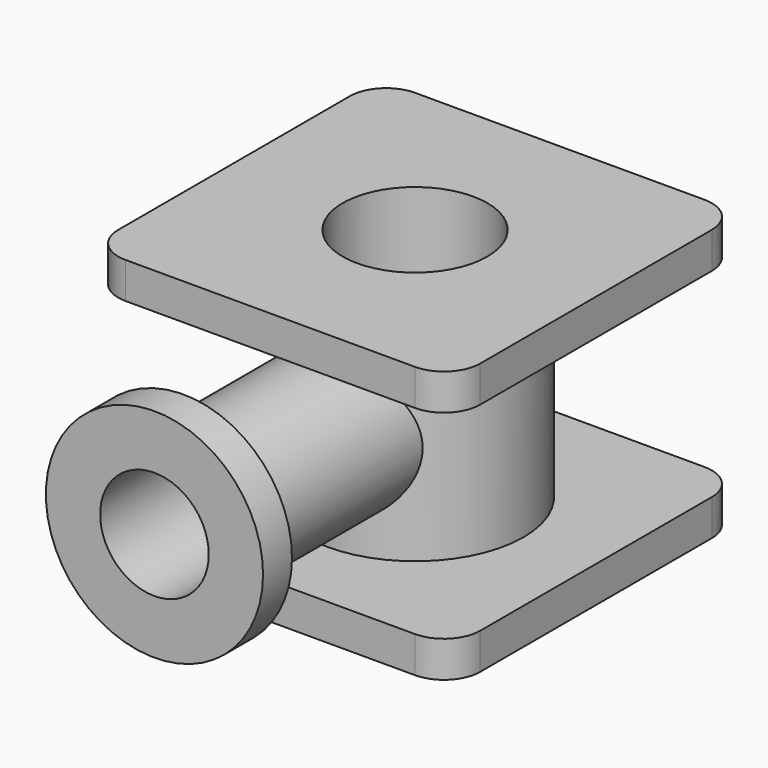
from build123d import *

# Parameters (mm, degrees)
F0_R      = 76.2
F0_R_2    = 50.8
F1_DEPTH  = 69.85
F2_R      = 50.8
F3_DEPTH  = 25.4
F5_R      = 50.8
F6_DEPTH  = 203.2
F7_R      = 76.2
F8_DEPTH  = 25.4
F10_DEPTH = 69.85
F9_R      = 38.1
F11_DEPTH = 203.2


with BuildPart() as f1:
    # F0 (on Top) → F1 (new body, symmetric)
    with BuildSketch(Plane.XY):
        Circle(F0_R)
        Circle(F0_R_2, mode=Mode.SUBTRACT)
    extrude(amount=F1_DEPTH, both=True)

    # F2 (on face) → F3 (join)
    with BuildSketch(Plane.XY.offset(69.85)):
        with BuildLine():
            Line((101.6, 127), (0, 127))
            Line((0, 127), (-101.6, 127))
            ThreePointArc((-101.6, 127), (-119.5605122421, 119.5605122421), (-127, 101.6))
            Line((-127, 101.6), (-127, 0))
            Line((-127, 0), (-127, -101.6))
            ThreePointArc((-127, -101.6), (-119.5605122421, -119.5605122421), (-101.6, -127))
            Line((-101.6, -127), (0, -127))
            Line((0, -127), (101.6, -127))
            ThreePointArc((101.6, -127), (119.5605122421, -119.5605122421), (127, -101.6))
            Line((127, -101.6), (127, 0))
            Line((127, 0), (127, 101.6))
            ThreePointArc((127, 101.6), (119.5605122421, 119.5605122421), (101.6, 127))
        make_face()
        Circle(F2_R, mode=Mode.SUBTRACT)
    extrude(amount=F3_DEPTH)

    # F4: F1 across plane


with BuildPart() as f1_1:
    add(f1.part)
    add(f1.part.mirror(Plane.XY))

    # F5 (on Front) → F6 (join)
    with BuildSketch(Plane.XZ):
        Circle(F5_R)
    extrude(amount=F6_DEPTH)

    # F7 (on face) → F8 (join)
    with BuildSketch(Plane.XZ.offset(203.2)):
        Circle(F7_R)
    extrude(amount=F8_DEPTH)

    # F0 (on Top) → F10 (cut, symmetric)
    with BuildSketch(Plane.XY):
        Circle(F0_R_2)
    extrude(amount=F10_DEPTH, both=True, mode=Mode.SUBTRACT)

    # F9 (on face) → F11 (cut)
    with BuildSketch(Plane.XZ.offset(228.6)):
        Circle(F9_R)
    extrude(amount=-F11_DEPTH, mode=Mode.SUBTRACT)


solid = f1_1.part
